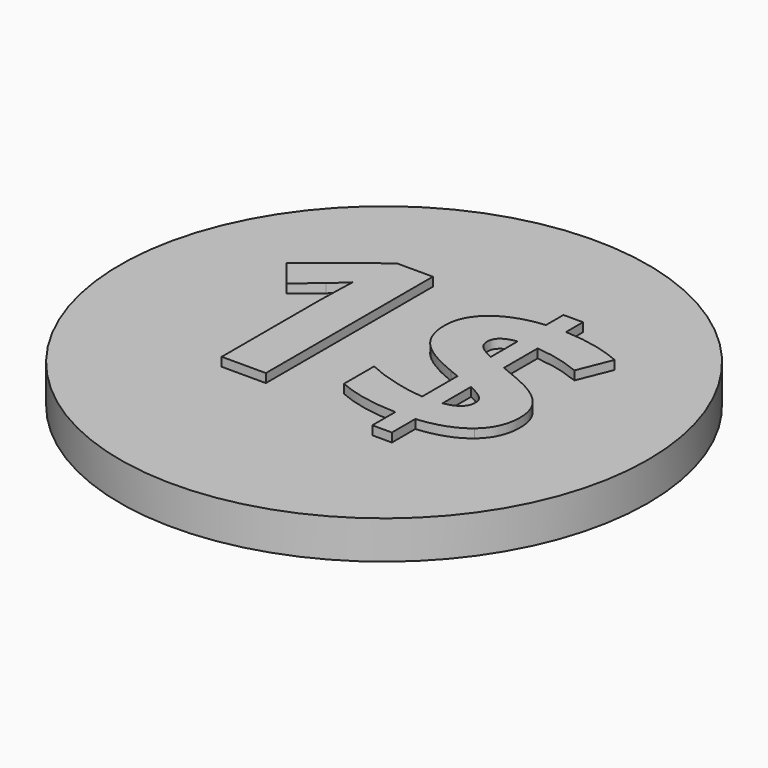
from build123d import *

# Parameters (mm, degrees)
F1_DEPTH = 2.159
F2_DEPTH = 2.159
F3_DEPTH = 1.7526
F4_DEPTH = 1.7526
F0_R     = 12.1285
F5_DEPTH = 1.7526


with BuildPart() as f1:
    # F0 (on Top) → F1 (new body)
    with BuildSketch(Plane.XY):
        with BuildLine():
            Line((-4.3302370993, -3.9129708894), (-2.3021115051, -3.9129708894))
            Line((-2.3021115051, -3.9129708894), (-2.3021115051, 5.6796852593))
            Line((-2.3021115051, 5.6796852593), (-3.969121569, 5.6796852593))
            Line((-3.969121569, 5.6796852593), (-7.0595986649, 3.2190608324))
            Line((-7.0595986649, 3.2190608324), (-6.081227519, 1.9992461635))
            Line((-6.081227519, 1.9992461635), (-4.9789853483, 2.8852389179))
            add(Edge.make_bspline(
                [(-4.2777493768, 3.5465842203), (-4.781631512, 3.0427020851), (-4.9789853483, 2.8852389179)],
                knots=[0, 0, 0, 1, 1, 1], degree=2))
            Line((-4.2777493768, 3.5465842203), (-4.3092420103, 2.5493174944))
            Line((-4.3092420103, 2.5493174944), (-4.3302370993, 1.6381306333))
            Line((-4.3302370993, 1.6381306333), (-4.3302370993, -3.9129708894))
        make_face()
    extrude(amount=F1_DEPTH)


with BuildPart() as f2:
    # F0 (on Top) → F2 (new body)
    with BuildSketch(Plane.XY):
        with BuildLine():
            add(Edge.make_bspline(
                [(6.9819168357, -0.914872185), (6.9819168357, -1.9583281066), (6.2271433874, -2.5913300389)],
                knots=[0, 0, 0, 1, 1, 1], degree=2))
            add(Edge.make_bspline(
                [(6.7289260136, 0.0960413487), (6.9819168357, -0.3375072384), (6.9819168357, -0.914872185)],
                knots=[0, 0, 0, 1, 1, 1], degree=2))
            add(Edge.make_bspline(
                [(5.9342618963, 0.8896557116), (6.4759351916, 0.5295899359), (6.7289260136, 0.0960413487)],
                knots=[0, 0, 0, 1, 1, 1], degree=2))
            add(Edge.make_bspline(
                [(4.1139876829, 1.7431060781), (5.3925886009, 1.2497214874), (5.9342618963, 0.8896557116)],
                knots=[0, 0, 0, 1, 1, 1], degree=2))
            Line((4.1139876829, 1.7431060781), (4.1139876829, 3.6788532808))
            add(Edge.make_bspline(
                [(6.2134965795, 3.16657311), (5.188936238, 3.5864748893), (4.1139876829, 3.6788532808)],
                knots=[0, 0, 0, 1, 1, 1], degree=2))
            Line((6.2134965795, 3.16657311), (6.8307521951, 4.7013141134))
            add(Edge.make_bspline(
                [(4.1139876829, 5.3059726757), (5.6172360529, 5.238788391), (6.8307521951, 4.7013141134)],
                knots=[0, 0, 0, 1, 1, 1], degree=2))
            Line((4.1139876829, 5.3059726757), (4.1139876829, 6.2822443126))
            Line((4.1139876829, 6.2822443126), (3.2153978752, 6.2822443126))
            Line((3.2153978752, 6.2822443126), (3.2153978752, 5.27867906))
            add(Edge.make_bspline(
                [(1.137933822, 4.5344031562), (1.8822097258, 5.1485095084), (3.2153978752, 5.27867906)],
                knots=[0, 0, 0, 1, 1, 1], degree=2))
            add(Edge.make_bspline(
                [(0.3936579181, 2.9692192737), (0.3936579181, 3.9202968039), (1.137933822, 4.5344031562)],
                knots=[0, 0, 0, 1, 1, 1], degree=2))
            add(Edge.make_bspline(
                [(0.9353312134, 1.4827669749), (0.3936579181, 2.0832265194), (0.3936579181, 2.9692192737)],
                knots=[0, 0, 0, 1, 1, 1], degree=2))
            add(Edge.make_bspline(
                [(2.7745010069, 0.3721267686), (1.4770045088, 0.8823074305), (0.9353312134, 1.4827669749)],
                knots=[0, 0, 0, 1, 1, 1], degree=2))
            Line((2.7745010069, 0.3721267686), (3.2153978752, 0.1999670391))
            Line((3.2153978752, 0.1999670391), (3.2153978752, -1.8323575728))
            add(Edge.make_bspline(
                [(1.7814332988, -1.5772672419), (2.5855452062, -1.7945664127), (3.2153978752, -1.8323575728)],
                knots=[0, 0, 0, 1, 1, 1], degree=2))
            add(Edge.make_bspline(
                [(0.4062549715, -1.0786338789), (0.9773213914, -1.3599680711), (1.7814332988, -1.5772672419)],
                knots=[0, 0, 0, 1, 1, 1], degree=2))
            Line((0.4062549715, -1.0786338789), (0.4062549715, -2.8107287186))
            add(Edge.make_bspline(
                [(3.2153978752, -3.3754966118), (1.613472587, -3.3419044695), (0.4062549715, -2.8107287186)],
                knots=[0, 0, 0, 1, 1, 1], degree=2))
            Line((3.2153978752, -3.3754966118), (3.2153978752, -4.6939881989))
            Line((3.2153978752, -4.6939881989), (4.1139876829, -4.6939881989))
            Line((4.1139876829, -4.6939881989), (4.1139876829, -3.3482029962))
            add(Edge.make_bspline(
                [(6.2271433874, -2.5913300389), (5.472369939, -3.2243319713), (4.1139876829, -3.3482029962)],
                knots=[0, 0, 0, 1, 1, 1], degree=2))
        make_face()
        with BuildLine():
            add(Edge.make_bspline(
                [(5.006278964, -1.0135491031), (5.006278964, -0.7364139288), (4.7826812665, -0.5464083736)],
                knots=[0, 0, 0, 1, 1, 1], degree=2))
            add(Edge.make_bspline(
                [(4.1139876829, -1.7861683771), (5.006278964, -1.6371032454), (5.006278964, -1.0135491031)],
                knots=[0, 0, 0, 1, 1, 1], degree=2))
            Line((4.1139876829, -1.7861683771), (4.1139876829, -0.1527504555))
            add(Edge.make_bspline(
                [(4.7826812665, -0.5464083736), (4.559083569, -0.3564028185), (4.1139876829, -0.1527504555)],
                knots=[0, 0, 0, 1, 1, 1], degree=2))
        make_face(mode=Mode.SUBTRACT)
        with BuildLine():
            add(Edge.make_bspline(
                [(2.3692957898, 2.9692192737), (2.3692957898, 2.6815865549), (2.568749135, 2.4947302631)],
                knots=[0, 0, 0, 1, 1, 1], degree=2))
            add(Edge.make_bspline(
                [(3.2153978752, 3.6515596651), (2.3692957898, 3.5276886402), (2.3692957898, 2.9692192737)],
                knots=[0, 0, 0, 1, 1, 1], degree=2))
            Line((3.2153978752, 3.6515596651), (3.2153978752, 2.110520135))
            add(Edge.make_bspline(
                [(2.568749135, 2.4947302631), (2.7682024802, 2.3078739713), (3.2153978752, 2.110520135)],
                knots=[0, 0, 0, 1, 1, 1], degree=2))
        make_face(mode=Mode.SUBTRACT)
    extrude(amount=F2_DEPTH)

    # F0 (on Top) → F3 (join)
    with BuildSketch(Plane.XY):
        with BuildLine():
            add(Edge.make_bspline(
                [(3.2153978752, 3.6515596651), (2.3692957898, 3.5276886402), (2.3692957898, 2.9692192737)],
                knots=[0, 0, 0, 1, 1, 1], degree=2))
            add(Edge.make_bspline(
                [(2.3692957898, 2.9692192737), (2.3692957898, 2.6815865549), (2.568749135, 2.4947302631)],
                knots=[0, 0, 0, 1, 1, 1], degree=2))
            add(Edge.make_bspline(
                [(2.568749135, 2.4947302631), (2.7682024802, 2.3078739713), (3.2153978752, 2.110520135)],
                knots=[0, 0, 0, 1, 1, 1], degree=2))
            Line((3.2153978752, 2.110520135), (3.2153978752, 3.6515596651))
        make_face()
    extrude(amount=F3_DEPTH)

    # F0 (on Top) → F4 (join)
    with BuildSketch(Plane.XY):
        with BuildLine():
            add(Edge.make_bspline(
                [(4.1139876829, -1.7861683771), (5.006278964, -1.6371032454), (5.006278964, -1.0135491031)],
                knots=[0, 0, 0, 1, 1, 1], degree=2))
            add(Edge.make_bspline(
                [(5.006278964, -1.0135491031), (5.006278964, -0.7364139288), (4.7826812665, -0.5464083736)],
                knots=[0, 0, 0, 1, 1, 1], degree=2))
            add(Edge.make_bspline(
                [(4.7826812665, -0.5464083736), (4.559083569, -0.3564028185), (4.1139876829, -0.1527504555)],
                knots=[0, 0, 0, 1, 1, 1], degree=2))
            Line((4.1139876829, -0.1527504555), (4.1139876829, -1.7861683771))
        make_face()
    extrude(amount=F4_DEPTH)


with BuildPart() as f5:
    # F0 (on Top) → F5 (new body)
    with BuildSketch(Plane.XY):
        Circle(F0_R)
        with BuildLine():
            Line((-2.3021115051, 5.6796852593), (-2.3021115051, -3.9129708894))
            Line((-2.3021115051, -3.9129708894), (-4.3302370993, -3.9129708894))
            Line((-4.3302370993, -3.9129708894), (-4.3302370993, 1.6381306333))
            Line((-4.3302370993, 1.6381306333), (-4.3092420103, 2.5493174944))
            Line((-4.3092420103, 2.5493174944), (-4.2777493768, 3.5465842203))
            add(Edge.make_bspline(
                [(-4.2777493768, 3.5465842203), (-4.781631512, 3.0427020851), (-4.9789853483, 2.8852389179)],
                knots=[0, 0, 0, 1, 1, 1], degree=2))
            Line((-4.9789853483, 2.8852389179), (-6.081227519, 1.9992461635))
            Line((-6.081227519, 1.9992461635), (-7.0595986649, 3.2190608324))
            Line((-7.0595986649, 3.2190608324), (-3.969121569, 5.6796852593))
            Line((-3.969121569, 5.6796852593), (-2.3021115051, 5.6796852593))
        make_face(mode=Mode.SUBTRACT)
        with BuildLine():
            add(Edge.make_bspline(
                [(6.7289260136, 0.0960413487), (6.9819168357, -0.3375072384), (6.9819168357, -0.914872185)],
                knots=[0, 0, 0, 1, 1, 1], degree=2))
            add(Edge.make_bspline(
                [(6.9819168357, -0.914872185), (6.9819168357, -1.9583281066), (6.2271433874, -2.5913300389)],
                knots=[0, 0, 0, 1, 1, 1], degree=2))
            add(Edge.make_bspline(
                [(6.2271433874, -2.5913300389), (5.472369939, -3.2243319713), (4.1139876829, -3.3482029962)],
                knots=[0, 0, 0, 1, 1, 1], degree=2))
            Line((4.1139876829, -3.3482029962), (4.1139876829, -4.6939881989))
            Line((4.1139876829, -4.6939881989), (3.2153978752, -4.6939881989))
            Line((3.2153978752, -4.6939881989), (3.2153978752, -3.3754966118))
            add(Edge.make_bspline(
                [(3.2153978752, -3.3754966118), (1.613472587, -3.3419044695), (0.4062549715, -2.8107287186)],
                knots=[0, 0, 0, 1, 1, 1], degree=2))
            Line((0.4062549715, -2.8107287186), (0.4062549715, -1.0786338789))
            add(Edge.make_bspline(
                [(0.4062549715, -1.0786338789), (0.9773213914, -1.3599680711), (1.7814332988, -1.5772672419)],
                knots=[0, 0, 0, 1, 1, 1], degree=2))
            add(Edge.make_bspline(
                [(1.7814332988, -1.5772672419), (2.5855452062, -1.7945664127), (3.2153978752, -1.8323575728)],
                knots=[0, 0, 0, 1, 1, 1], degree=2))
            Line((3.2153978752, -1.8323575728), (3.2153978752, 0.1999670391))
            Line((3.2153978752, 0.1999670391), (2.7745010069, 0.3721267686))
            add(Edge.make_bspline(
                [(2.7745010069, 0.3721267686), (1.4770045088, 0.8823074305), (0.9353312134, 1.4827669749)],
                knots=[0, 0, 0, 1, 1, 1], degree=2))
            add(Edge.make_bspline(
                [(0.9353312134, 1.4827669749), (0.3936579181, 2.0832265194), (0.3936579181, 2.9692192737)],
                knots=[0, 0, 0, 1, 1, 1], degree=2))
            add(Edge.make_bspline(
                [(0.3936579181, 2.9692192737), (0.3936579181, 3.9202968039), (1.137933822, 4.5344031562)],
                knots=[0, 0, 0, 1, 1, 1], degree=2))
            add(Edge.make_bspline(
                [(1.137933822, 4.5344031562), (1.8822097258, 5.1485095084), (3.2153978752, 5.27867906)],
                knots=[0, 0, 0, 1, 1, 1], degree=2))
            Line((3.2153978752, 5.27867906), (3.2153978752, 6.2822443126))
            Line((3.2153978752, 6.2822443126), (4.1139876829, 6.2822443126))
            Line((4.1139876829, 6.2822443126), (4.1139876829, 5.3059726757))
            add(Edge.make_bspline(
                [(4.1139876829, 5.3059726757), (5.6172360529, 5.238788391), (6.8307521951, 4.7013141134)],
                knots=[0, 0, 0, 1, 1, 1], degree=2))
            Line((6.8307521951, 4.7013141134), (6.2134965795, 3.16657311))
            add(Edge.make_bspline(
                [(6.2134965795, 3.16657311), (5.188936238, 3.5864748893), (4.1139876829, 3.6788532808)],
                knots=[0, 0, 0, 1, 1, 1], degree=2))
            Line((4.1139876829, 3.6788532808), (4.1139876829, 1.7431060781))
            add(Edge.make_bspline(
                [(4.1139876829, 1.7431060781), (5.3925886009, 1.2497214874), (5.9342618963, 0.8896557116)],
                knots=[0, 0, 0, 1, 1, 1], degree=2))
            add(Edge.make_bspline(
                [(5.9342618963, 0.8896557116), (6.4759351916, 0.5295899359), (6.7289260136, 0.0960413487)],
                knots=[0, 0, 0, 1, 1, 1], degree=2))
        make_face(mode=Mode.SUBTRACT)
    extrude(amount=F5_DEPTH)


solid = Compound([f1.part, f2.part, f5.part])
